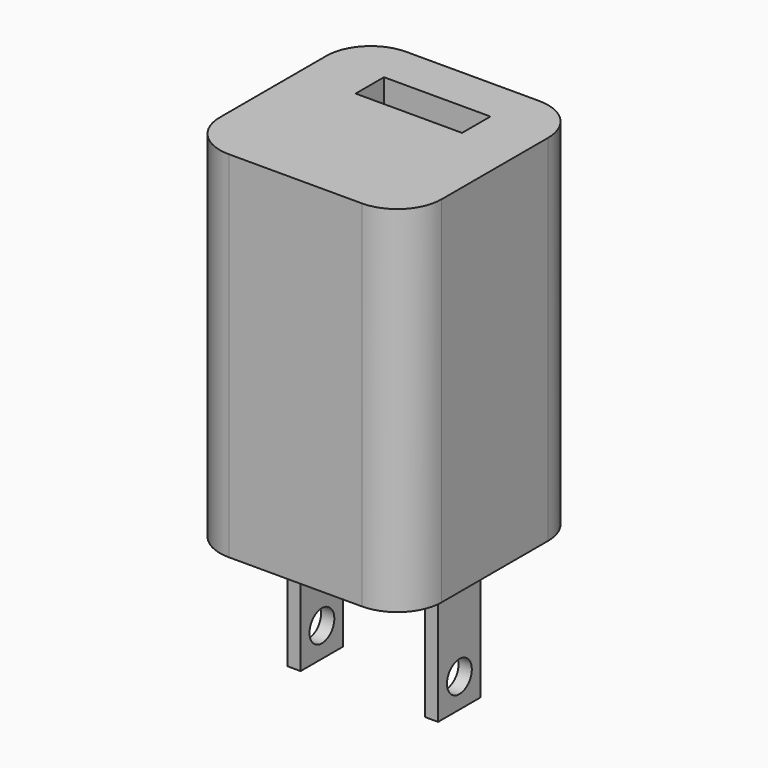
from build123d import *

# Parameters (mm, degrees)
F0_W     = 25
F0_H     = 25
F0_W_2   = 12
F0_H_2   = 4
F1_DEPTH = 40
F2_W     = 1.5
F2_H     = 6
F3_DEPTH = 15
F4_R     = 1.75
F5_DEPTH = 25
F6_W     = 12
F6_H     = 4
F7_DEPTH = 25
F8_R     = 5


with BuildPart() as f1:
    # F0 (on Top) → F1 (new body)
    with BuildSketch(Plane.XY):
        Rectangle(F0_W, F0_H)
        with Locations((0, 5.5)):
            Rectangle(F0_W_2, F0_H_2, mode=Mode.SUBTRACT)
    extrude(amount=F1_DEPTH)

    # F2 (on face) → F3 (join)
    with BuildSketch(Plane(origin=(0, 0, 0), x_dir=(1, 0, 0), z_dir=(0, 0, -1))):
        with Locations((-7.75, 0)):
            Rectangle(F2_W, F2_H)
        with Locations((7.75, 0)):
            Rectangle(F2_W, F2_H)
    extrude(amount=F3_DEPTH)

    # F4 (on face) → F5 (cut)
    with BuildSketch(Plane(origin=(-8.5, 0, 0), x_dir=(0, -1, 0), z_dir=(-1, 0, 0))):
        with Locations((0, -11.713912)):
            Circle(F4_R)
    extrude(amount=-F5_DEPTH, mode=Mode.SUBTRACT)

    # F6 (on face) → F7 (join)
    with BuildSketch(Plane(origin=(0, 0, 0), x_dir=(1, 0, 0), z_dir=(0, 0, -1))):
        with Locations((0, -5.5)):
            Rectangle(F6_W, F6_H)
    extrude(amount=-F7_DEPTH)

    # F8
    f8_edges = [f1.edges().sort_by_distance(p)[0] for p in [
        (12.5, 12.5, 20),
        (-12.5, 12.5, 20),
        (12.5, -12.5, 20),
        (-12.5, -12.5, 20),
    ]]
    fillet(f8_edges, radius=F8_R)


solid = f1.part
